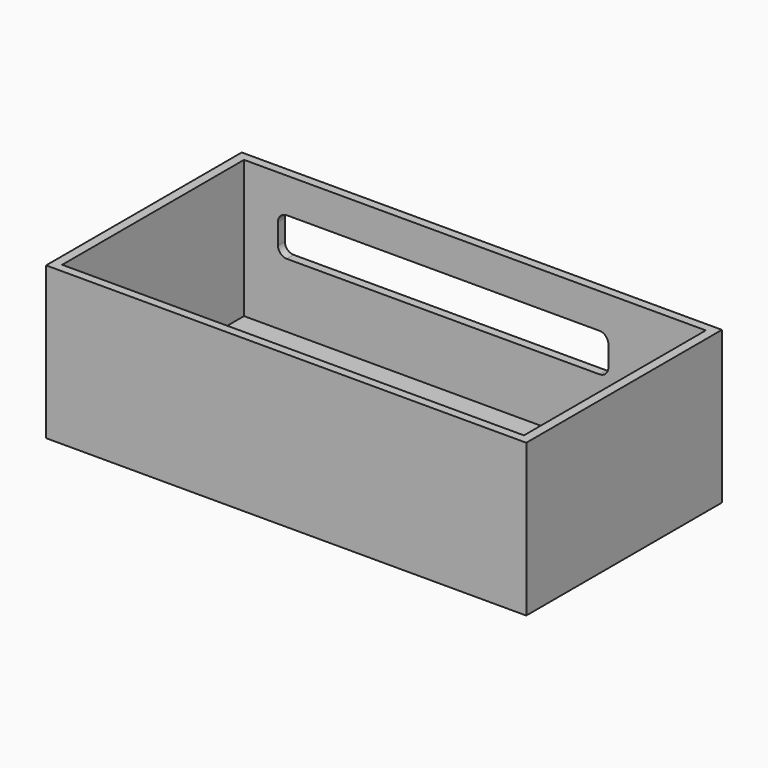
from build123d import *

# Parameters (mm, degrees)
SKETCH009_W  = 111.2
SKETCH009_H  = 12.9
PAD007_DEPTH = 30
FILLET001_R  = 3
SKETCH_W     = 161.6
SKETCH_H     = 82.3
PAD_DEPTH    = 51.2
SKETCH001_W  = 155.4
SKETCH001_H  = 76.5
POCKET_DEPTH = 46.3


with BuildPart() as tubecutout:
    # Sketch009 → Pad007 (new body)
    with BuildSketch(Plane(origin=(-10.7, 54, 33), x_dir=(1, 0, 0), z_dir=(0, -1, 0))):
        Rectangle(SKETCH009_W, SKETCH009_H)
    extrude(amount=PAD007_DEPTH)

    # Fillet001
    fillet001_edges = [tubecutout.edges().sort_by_distance(p)[0] for p in [
        (-66.3, 39, 39.45),
        (-66.3, 39, 26.55),
        (44.9, 39, 39.45),
        (44.9, 39, 26.55),
    ]]
    fillet(fillet001_edges, radius=FILLET001_R)


with BuildPart() as enclosurebox:
    # Sketch → Pad (new body)
    with BuildSketch(Plane.XY):
        Rectangle(SKETCH_W, SKETCH_H)
    extrude(amount=PAD_DEPTH)

    # Sketch001 → Pocket (cut)
    with BuildSketch(Plane.XY.offset(51.2)):
        Rectangle(SKETCH001_W, SKETCH001_H)
    extrude(amount=-POCKET_DEPTH, mode=Mode.SUBTRACT)

    # Cut: cut TubeCutout
    add(tubecutout.part, mode=Mode.SUBTRACT)


solid = enclosurebox.part
